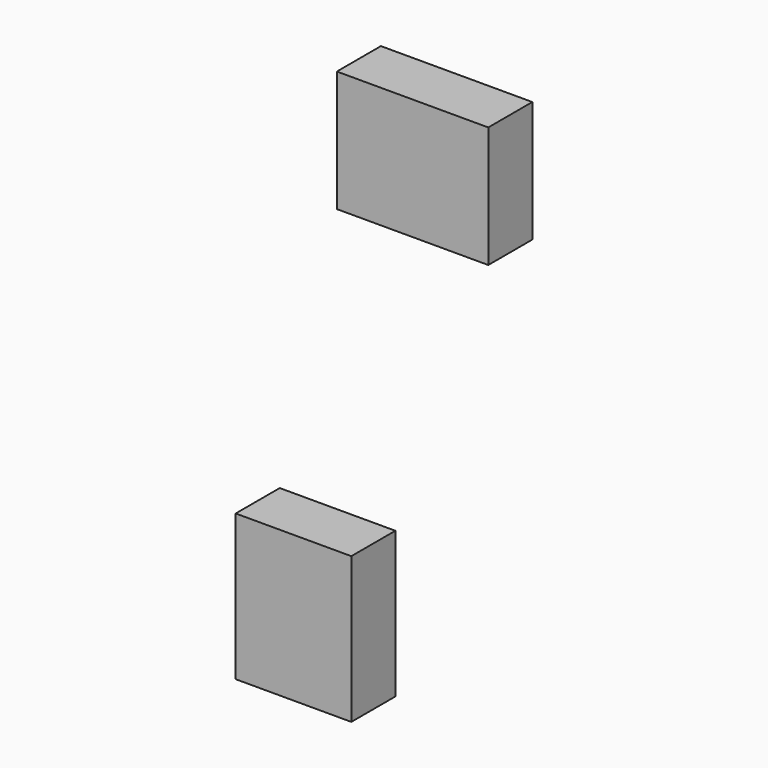
from build123d import *

# Parameters (mm, degrees)
F0_W     = 53.34
F0_H     = 67.31
F0_W_2   = 69.85
F0_H_2   = 55.88
F1_DEPTH = 12.7


with BuildPart() as f1:
    # F0 (on Front) → F1 (new body, symmetric)
    with BuildSketch(Plane.XZ):
        with Locations((-151.108095, -89.722353)):
            Rectangle(F0_W, F0_H)
        with Locations((-96.183545, 110.652837)):
            Rectangle(F0_W_2, F0_H_2)
    extrude(amount=F1_DEPTH, both=True)


solid = f1.part
